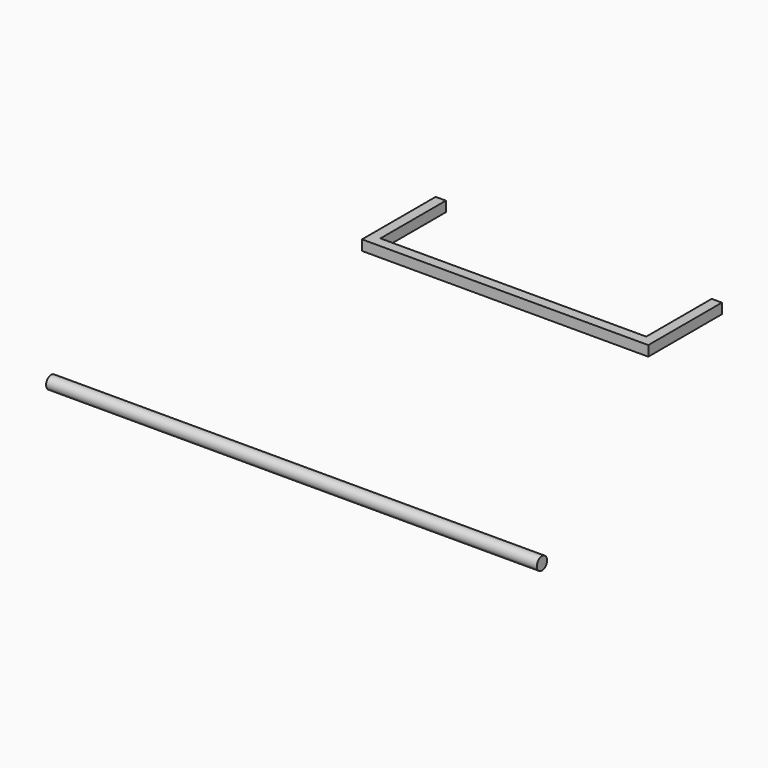
from build123d import *

# Parameters (mm, degrees)
F0_W     = 609.6
F0_H     = 7.9375
F3_DEPTH = 12.7


with BuildPart() as f1:
    # F0 (on Top) → F1 (revolve)
    with BuildSketch(Plane.XY):
        with Locations((0, 3.96875)):
            Rectangle(F0_W, F0_H)
    revolve(axis=Axis((0, 0, 0), (1, 0, 0)))


with BuildPart() as f3:
    # F2 (on Top) → F3 (new body)
    with BuildSketch(Plane.XY):
        Polygon((-228.648874, 517.583894), (-241.348874, 517.583894), (-241.348874, 415.983894), (-241.348874, 403.283894), (114.251126, 403.283894), (114.251126, 517.583894), (101.551126, 517.583894), (101.551126, 415.983894), (-228.648874, 415.983894), align=None)
    extrude(amount=F3_DEPTH)


solid = Compound([f1.part, f3.part])
